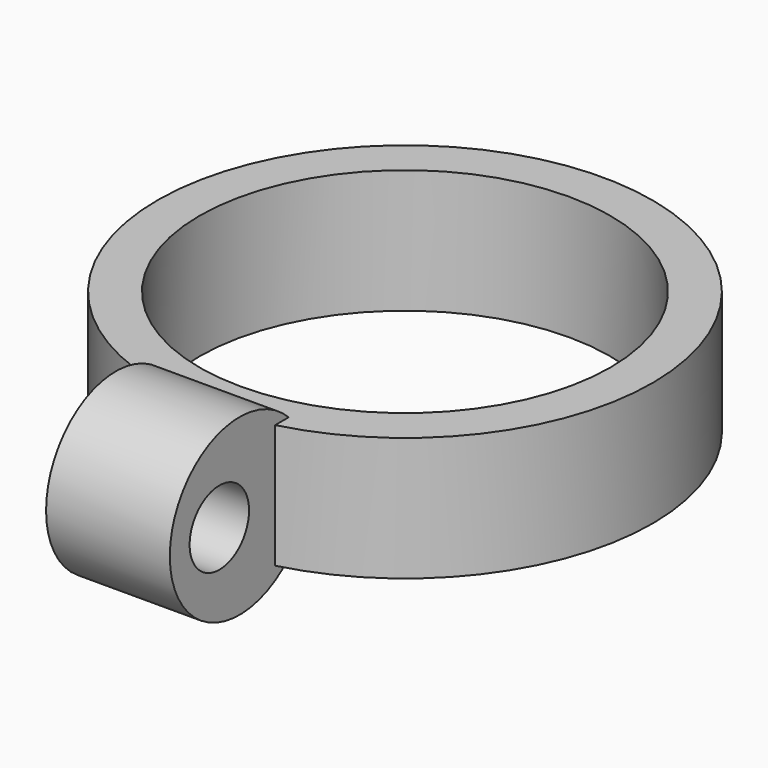
from build123d import *

# Parameters (mm, degrees)
F0_R     = 10
F0_R_2   = 8.3
F1_DEPTH = 5
F2_R     = 1.5
F3_DEPTH = 2.5


with BuildPart() as f1:
    # F0 (on Top) → F1 (new body)
    with BuildSketch(Plane.XY):
        Circle(F0_R)
        Circle(F0_R_2, mode=Mode.SUBTRACT)
    extrude(amount=F1_DEPTH)

    # F2 (on Right) → F3 (join, symmetric)
    with BuildSketch(Plane.YZ):
        with BuildLine():
            Line((-9, 0), (-9, 5))
            ThreePointArc((-9, 5), (-15, 2.5), (-9, 0))
        make_face()
        with Locations((-12.5, 2.5)):
            Circle(F2_R, mode=Mode.SUBTRACT)
    extrude(amount=F3_DEPTH, both=True)


solid = f1.part
